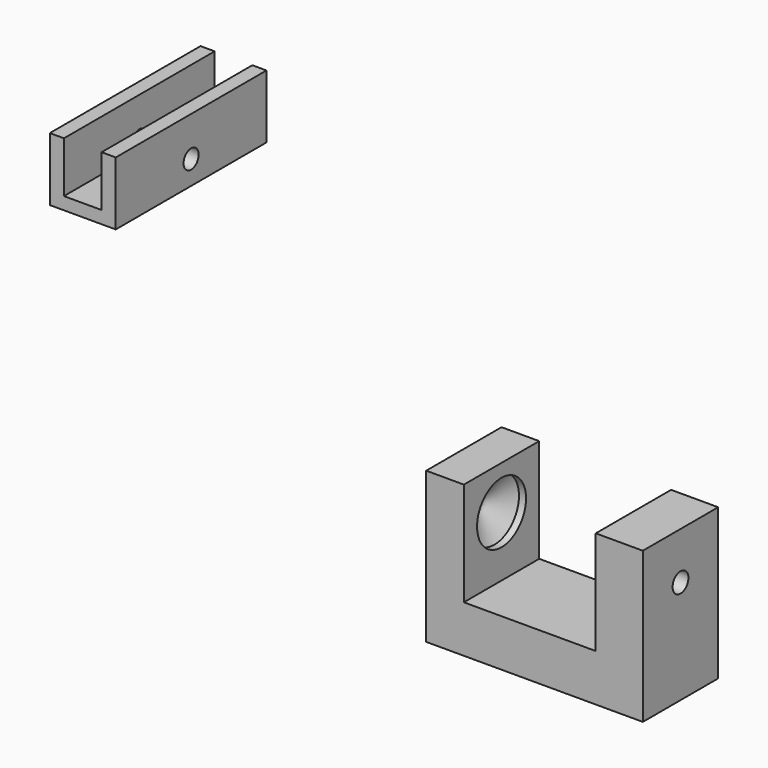
from build123d import *

# Parameters (mm, degrees)
F1_DEPTH = 20
F3_D     = 13
F3_DEPTH = 1.5
F3_TIP   = 3.9055940237
F5_D     = 4.2
F5_DEPTH = 10
F5_TIP   = 1.2618073
F7_DEPTH = 40
F9_D     = 4


with BuildPart() as f1:
    # F0 (on Front) → F1 (new body)
    with BuildSketch(Plane.XZ):
        Polygon((8, 0), (0, 0), (0, -32), (46, -32), (46, 0), (36, 0), (36, -22), (8, -22), align=None)
    extrude(amount=F1_DEPTH)

    # F3 (one way)
    with BuildSketch(Plane.YZ.offset(8)):
        with Locations((-10, -9.2806210741)):
            Circle(F3_D / 2)
    extrude(amount=-F3_DEPTH, mode=Mode.SUBTRACT)
    with Locations(Plane.YZ.offset(8)):
        with Locations((-10, -9.2806210741)):
            with Locations((0, 0, -(F3_DEPTH + F3_TIP / 2))):  # 118° drill point
                Cone(0, F3_D / 2, F3_TIP, mode=Mode.SUBTRACT)

    # F5
    with Locations(Plane.YZ.offset(46)):
        with Locations((-10, -9.9821751937)):
            Hole(F5_D / 2, depth=F5_DEPTH)
            with Locations((0, 0, -(F5_DEPTH + F5_TIP / 2))):  # 118° drill point
                Cone(0, F5_D / 2, F5_TIP, mode=Mode.SUBTRACT)


with BuildPart() as f7:
    # F6 (on Front) → F7 (new body)
    with BuildSketch(Plane.XZ):
        Polygon((-60.9114952385, 50.4485665456), (-63.9114952385, 50.4485665456), (-63.9114952385, 36.9870328709), (-49.9114952385, 36.9870328709), (-49.9114952385, 50.4485665456), (-52.9114952385, 50.4485665456), (-52.9114952385, 39.6433845162), (-60.9114952385, 39.6433845162), align=None)
    extrude(amount=F7_DEPTH)

    # F9 (through all)
    with Locations(Plane.YZ.offset(-49.9114952385)):
        with Locations((-20, 42.0254990458)):
            Hole(F9_D / 2)


solid = Compound([f1.part, f7.part])
